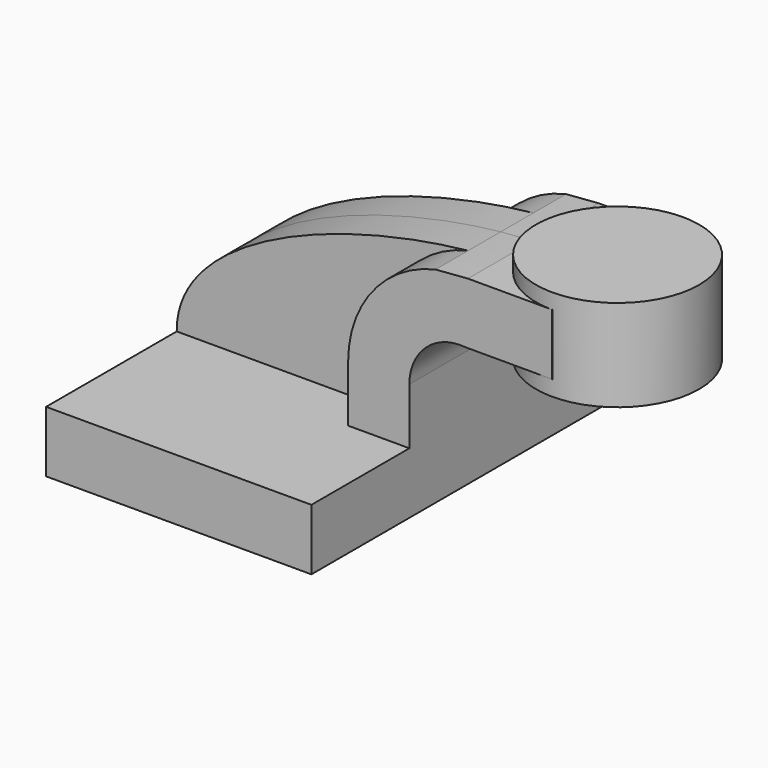
from build123d import *

# Parameters (mm, degrees)
F1_DEPTH = 63.5
F0_W     = 25.4
F0_H     = 19.05
F2_DEPTH = 25.4
F4_DEPTH = 12.7


with BuildPart() as f1:
    # F0 (on Front) → F1 (new body, symmetric)
    with BuildSketch(Plane.XZ):
        Polygon((41.275, -9.525), (41.275, 9.525), (22.225, 9.525), (-41.275, 9.525), (-41.275, -9.525), align=None)
    extrude(amount=F1_DEPTH, both=True)

    # F0 (on Front) → F2 (join, symmetric)
    with BuildSketch(Plane.XZ):
        with BuildLine():
            Line((22.225, 9.525), (41.275, 9.525))
            Line((41.275, 9.525), (41.275, 27.0792827207))
            ThreePointArc((41.275, 27.0792827207), (46.4989002379, 38.8508458648), (58.732599856, 42.8752))
            Line((58.732599856, 42.8752), (60.325, 42.8752))
            Line((60.325, 42.8752), (60.325, 61.9252))
            Line((60.325, 61.9252), (59.4989729589, 61.9252))
            add(Edge.make_bspline(
                [(49.3886007307, 61.1309538453), (52.8095878961, 61.4934446217), (56.1894289896, 61.7592818595), (59.4989729589, 61.9252)],
                knots=[105.0847680292, 105.0847680292, 105.0847680292, 105.0847680292, 113.5833376247, 113.5833376247, 113.5833376247, 113.5833376247], degree=3))
            ThreePointArc((49.3886007307, 61.1309538453), (29.8477794449, 48.8587312389), (22.225, 27.0792827207))
            Line((22.225, 27.0792827207), (22.225, 9.525))
        make_face()
        with Locations((73.025, 52.4002)):
            Rectangle(F0_W, F0_H)
    extrude(amount=F2_DEPTH, both=True)

    # F0 (on Front) → F4 (join, symmetric)
    with BuildSketch(Plane.XZ):
        with BuildLine():
            Line((-41.275, 9.525), (22.225, 9.525))
            Line((22.225, 9.525), (22.225, 27.0792827207))
            ThreePointArc((22.225, 27.0792827207), (29.8477794449, 48.8587312389), (49.3886007307, 61.1309538453))
            add(Edge.make_bspline(
                [(-41.275, 9.525), (-41.5033258643, 37.3889022144), (7.0881125519, 56.648757315), (49.3886007307, 61.1309538453)],
                knots=[0, 0, 0, 0, 105.0847680292, 105.0847680292, 105.0847680292, 105.0847680292], degree=3))
        make_face()
    extrude(amount=F4_DEPTH, both=True)


with BuildPart() as f3:
    # F0 (on Front) → F3 (revolve)
    with BuildSketch(Plane.XZ):
        Polygon((85.725, 61.9252), (85.725, 42.8752), (85.725, 38.1), (111.125, 38.1), (111.125, 66.675), (85.725, 66.675), align=None)
    revolve(axis=Axis((85.725, 0, 52.3875), (0, 0, 1)))


solid = Compound([f1.part, f3.part])
